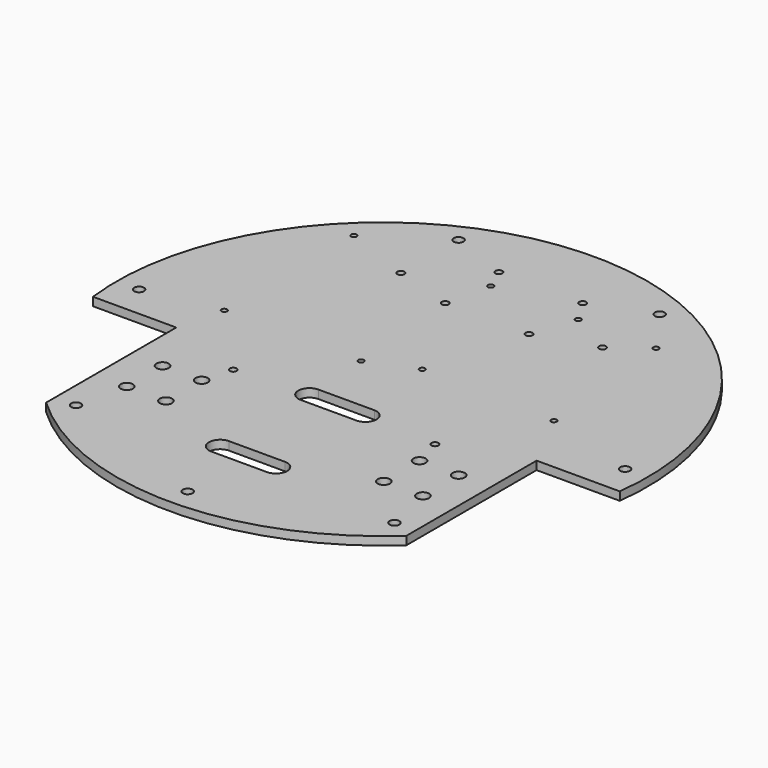
from build123d import *

# Parameters (mm, degrees)
SKETCH_R        = 95
PAD_DEPTH       = 3
SKETCH001_R     = 1.25
POCKET_DEPTH    = 3.001
SKETCH002_R     = 2.2
SKETCH002_W     = 32
SKETCH002_H     = 60
POCKET001_DEPTH = 540.435647
SKETCH003_R     = 1.75
POCKET002_DEPTH = 3.001
SKETCH004_R     = 1
POCKET003_DEPTH = 3.001
SKETCH005_R     = 1.25
POCKET004_DEPTH = 3.001


with BuildPart() as part:
    # Sketch → Pad (new body)
    with BuildSketch(Plane.XY):
        Circle(SKETCH_R)
    extrude(amount=PAD_DEPTH)

    # Sketch001 (on Face3 of Pad) → Pocket (cut, through all)
    with BuildSketch(Plane.XY.offset(3)):
        with Locations((-15, 71)):
            Circle(SKETCH001_R)
        with Locations((15, 71)):
            Circle(SKETCH001_R)
        with Locations((15, 47)):
            Circle(SKETCH001_R)
        with Locations((-15, 47)):
            Circle(SKETCH001_R)
    extrude(amount=-POCKET_DEPTH, mode=Mode.SUBTRACT)

    # Sketch002 (on Face3 of Pocket) → Pocket001 (cut, through all)
    with BuildSketch(Plane.XY.offset(3)):
        with Locations((-53, -32)):
            Circle(SKETCH002_R)
        with Locations((-39, -32)):
            Circle(SKETCH002_R)
        with Locations((-53, -48)):
            Circle(SKETCH002_R)
        with Locations((-39, -48)):
            Circle(SKETCH002_R)
        with Locations((-80.5, -41.5)):
            Rectangle(SKETCH002_W, SKETCH002_H)
    pocket001 = extrude(amount=-POCKET001_DEPTH, mode=Mode.SUBTRACT)

    # Mirrored: Pocket001 across YZ
    add(pocket001.mirror(Plane.YZ), mode=Mode.SUBTRACT)

    # Sketch003 (on Face4 of Mirrored) → Pocket002 (cut, through all)
    with BuildSketch(Plane.XY.offset(3)):
        with Locations((-36, 79.202273)):
            Circle(SKETCH003_R)
        with Locations((36, 79.202273)):
            Circle(SKETCH003_R)
        with Locations((-57, -65.726707)):
            Circle(SKETCH003_R)
        with Locations((57, -65.726707)):
            Circle(SKETCH003_R)
        with Locations((-87, -0.000103)):
            Circle(SKETCH003_R)
        with Locations((87, -0.000103)):
            Circle(SKETCH003_R)
        with Locations((0, -87)):
            Circle(SKETCH003_R)
    extrude(amount=-POCKET002_DEPTH, mode=Mode.SUBTRACT)

    # Sketch004 (on Face4 of Pocket002) → Pocket003 (cut, through all)
    with BuildSketch(Plane.XY.offset(3)):
        with Locations((-60.5, 5)):
            Circle(SKETCH004_R)
        with Locations((-60.5, 63)):
            Circle(SKETCH004_R)
        with Locations((-11.5, 63)):
            Circle(SKETCH004_R)
        with Locations((-11.5, 5)):
            Circle(SKETCH004_R)
        with Locations((20.2, 62.5)):
            Circle(SKETCH004_R)
        with Locations((5, 11.7)):
            Circle(SKETCH004_R)
        with Locations((53.2, 10.4)):
            Circle(SKETCH004_R)
        with Locations((48.1, 62.5)):
            Circle(SKETCH004_R)
        with BuildLine():
            ThreePointArc((-10, -56), (-14, -60), (-10, -64))
            Line((-10, -64), (10, -64))
            ThreePointArc((10, -64), (14, -60), (10, -56))
            Line((-10, -56), (10, -56))
        make_face()
        with BuildLine():
            ThreePointArc((-10, -16), (-14, -20), (-10, -24))
            Line((-10, -24), (10, -24))
            ThreePointArc((10, -24), (14, -20), (10, -16))
            Line((-10, -16), (10, -16))
        make_face()
    extrude(amount=-POCKET003_DEPTH, mode=Mode.SUBTRACT)

    # Sketch005 (on Face4 of Pocket003) → Pocket004 (cut, through all)
    with BuildSketch(Plane.XY.offset(3)):
        with Locations((-36.1, 53.5)):
            Circle(SKETCH005_R)
        with Locations((-36.1, -21.5)):
            Circle(SKETCH005_R)
        with Locations((36.1, 53.5)):
            Circle(SKETCH005_R)
        with Locations((36.1, -21.5)):
            Circle(SKETCH005_R)
    extrude(amount=-POCKET004_DEPTH, mode=Mode.SUBTRACT)


solid = part.part
